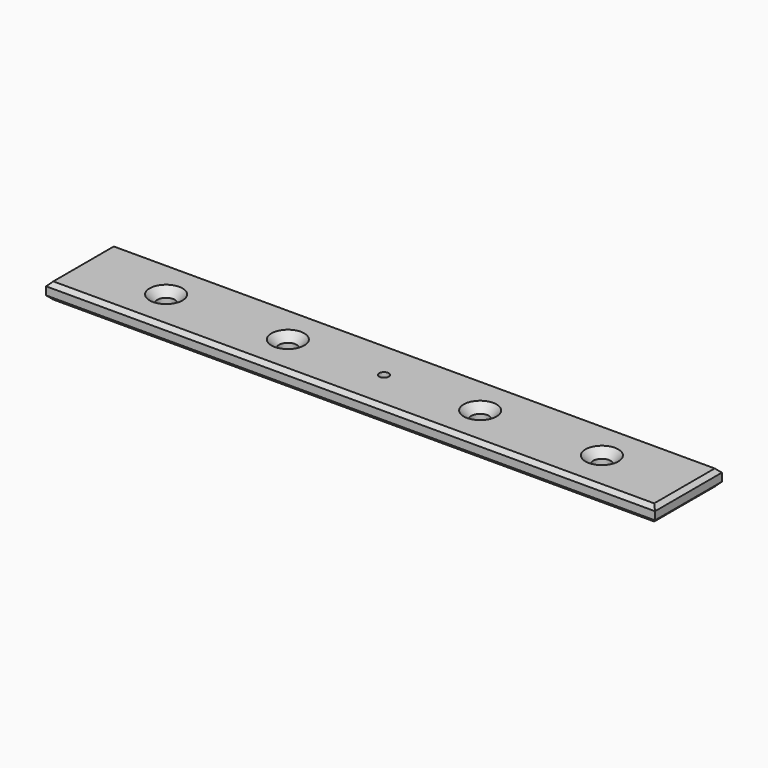
from build123d import *

# Parameters (mm, degrees)
F0_W           = 380
F0_H           = 52.2
F1_DEPTH       = 5
F2_SIZE        = 2.5
F4_D           = 6
F5_D           = 11
F5_CSINK_D     = 20.5
F5_CSINK_ANGLE = 90


with BuildPart() as f1:
    # F0 (on Top) → F1 (new body, symmetric)
    with BuildSketch(Plane.XY):
        Rectangle(F0_W, F0_H)
    extrude(amount=F1_DEPTH, both=True)

    # F2
    f2_edges = [f1.edges().sort_by_distance(p)[0] for p in [
        (0, 26.1, 5),
        (-190, 0, 5),
        (0, -26.1, 5),
        (190, 0, 5),
        (0, 26.1, -5),
        (-190, 0, -5),
        (0, -26.1, -5),
        (190, 0, -5),
    ]]
    chamfer(f2_edges, length=F2_SIZE)

    # F4 (through all)
    with Locations(Plane.XY.offset(5)):
        with Locations((0, 0)):
            Hole(F4_D / 2)

    # F5 (through all)
    with Locations(Plane.XY.offset(5)):
        with Locations((-136, 0), (-60, 0), (60, 0), (136, 0)):
            CounterSinkHole(F5_D / 2, F5_CSINK_D / 2, counter_sink_angle=F5_CSINK_ANGLE)


solid = f1.part
